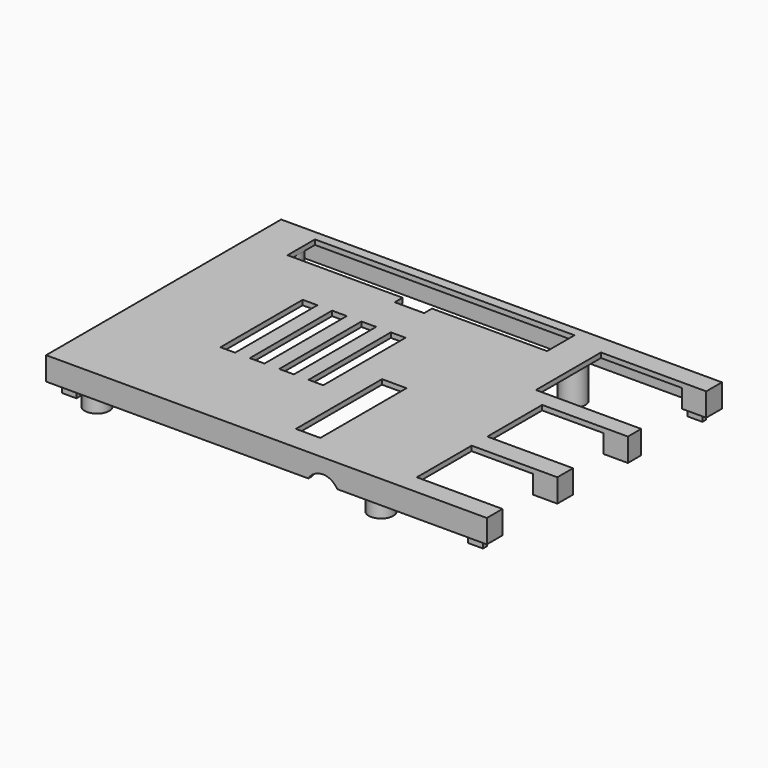
from build123d import *

# Parameters (mm, degrees)
BOX071_W               = 5
BOX071_H               = 22
BOX071_DEPTH           = 10
BOX002_W               = 5
BOX002_H               = 12
BOX002_DEPTH           = 6
BOX003_W               = 9
BOX003_H               = 10
BOX003_DEPTH           = 3.8
FILLET_R               = 1.6
BOX004_W               = 7
BOX004_H               = 10
BOX004_DEPTH           = 3.8
FILLET001_R            = 0.6
BOX005_W               = 7
BOX005_H               = 10
BOX005_DEPTH           = 3.8
FILLET002_R            = 0.6
CYLINDER008_R          = 3.4
CYLINDER008_DEPTH      = 10
BOX006_W               = 26
BOX006_H               = 16.6
BOX006_DEPTH           = 14
BOX007_W               = 22
BOX007_H               = 14
BOX007_DEPTH           = 16.6
BOX008_W               = 22
BOX008_H               = 14
BOX008_DEPTH           = 16.6
CYLINDER001_R          = 1.6
CYLINDER001_DEPTH      = 10
CYLINDER_R             = 1.6
CYLINDER_DEPTH         = 10
CYLINDER002_R          = 1.6
CYLINDER002_DEPTH      = 10
CYLINDER003_R          = 1.6
CYLINDER003_DEPTH      = 10
BOX017_W               = 3
BOX017_H               = 21
BOX017_DEPTH           = 3
BOX009_W               = 3
BOX009_H               = 21
BOX009_DEPTH           = 3
BOX016_W               = 3
BOX016_H               = 21
BOX016_DEPTH           = 3
BOX010_W               = 3
BOX010_H               = 21
BOX010_DEPTH           = 3
BOX021_W               = 53
BOX021_H               = 7
BOX021_DEPTH           = 10
BOX014_W               = 6
BOX014_H               = 2
BOX014_DEPTH           = 10
CYLINDER013_R          = 1.3
CYLINDER013_DEPTH      = 8.5
CYLINDER015_R          = 1.3
CYLINDER015_DEPTH      = 8.5
CYLINDER016_R          = 1.3
CYLINDER016_DEPTH      = 8.5
CYLINDER012_R          = 1.3
CYLINDER012_DEPTH      = 8.5
BOX018_W               = 3
BOX018_H               = 1
BOX018_DEPTH           = 6.75
BOX012_W               = 3
BOX012_H               = 1
BOX012_DEPTH           = 6.75
BOX013_W               = 3
BOX013_H               = 1
BOX013_DEPTH           = 6.75
BOX015_W               = 3
BOX015_H               = 1
BOX015_DEPTH           = 6.75
CYLINDER014_R          = 2.5
CYLINDER014_DEPTH      = 8.5
CYLINDER009_R          = 2.5
CYLINDER009_DEPTH      = 8.5
CYLINDER010_R          = 2.5
CYLINDER010_DEPTH      = 8.5
CYLINDER011_R          = 2.5
CYLINDER011_DEPTH      = 8.5
BOX020_W               = 3.5
BOX020_H               = 56
BOX020_DEPTH           = 10
BOX011_W               = 80
BOX011_H               = 58
BOX011_DEPTH           = 10
BOX019_W               = 90
BOX019_H               = 60
BOX019_DEPTH           = 4.75
CUT003_PLACEMENT_ANGLE = 180
CHAMFER004_SIZE        = 0.5


with BuildPart() as obj1:
    # Box071 → Box071 (new body)
    with BuildSketch(Plane(origin=(2, -25, 7), x_dir=(1, 0, 0), z_dir=(0, 0, 1))):
        with Locations((2.5, 11)):
            Rectangle(BOX071_W, BOX071_H)
    extrude(amount=BOX071_DEPTH)


with BuildPart() as sd_slot:
    # Box002 → Box002 (new body)
    with BuildSketch(Plane(origin=(-45, -6, -1), x_dir=(1, 0, 0), z_dir=(0, 0, 1))):
        with Locations((2.5, 6)):
            Rectangle(BOX002_W, BOX002_H)
    extrude(amount=BOX002_DEPTH)


with BuildPart() as usb_c:
    # Box003 → Box003 (new body)
    with BuildSketch(Plane(origin=(-35.8, -29, 4.7), x_dir=(1, 0, 0), z_dir=(0, 0, 1))):
        with Locations((4.5, 5)):
            Rectangle(BOX003_W, BOX003_H)
    extrude(amount=BOX003_DEPTH)

    # Fillet
    fillet_edges = [usb_c.edges().sort_by_distance(p)[0] for p in [
        (-35.8, -24, 8.5),
        (-35.8, -24, 4.7),
        (-26.8, -24, 8.5),
        (-26.8, -24, 4.7),
    ]]
    fillet(fillet_edges, radius=FILLET_R)


with BuildPart() as usb_c_1:
    # Fillet placement: moved
    add(usb_c.part.moved(Location((0, -4, 0))))


with BuildPart() as fillet001:
    # Box004 → Box004 (new body)
    with BuildSketch(Plane(origin=(-20, -29, 4.7), x_dir=(1, 0, 0), z_dir=(0, 0, 1))):
        with Locations((3.5, 5)):
            Rectangle(BOX004_W, BOX004_H)
    extrude(amount=BOX004_DEPTH)

    # Fillet001
    fillet001_edges = [fillet001.edges().sort_by_distance(p)[0] for p in [
        (-20, -24, 8.5),
        (-20, -24, 4.7),
        (-13, -24, 8.5),
        (-13, -24, 4.7),
    ]]
    fillet(fillet001_edges, radius=FILLET001_R)


with BuildPart() as fillet001_1:
    # Fillet001 placement: moved
    add(fillet001.part.moved(Location((0, -4, 0))))


with BuildPart() as fillet002:
    # Box005 → Box005 (new body)
    with BuildSketch(Plane(origin=(-20, -29, 4.7), x_dir=(1, 0, 0), z_dir=(0, 0, 1))):
        with Locations((3.5, 5)):
            Rectangle(BOX005_W, BOX005_H)
    extrude(amount=BOX005_DEPTH)

    # Fillet002
    fillet002_edges = [fillet002.edges().sort_by_distance(p)[0] for p in [
        (-20, -24, 8.5),
        (-20, -24, 4.7),
        (-13, -24, 8.5),
        (-13, -24, 4.7),
    ]]
    fillet(fillet002_edges, radius=FILLET002_R)


with BuildPart() as fillet002_1:
    # Fillet002 placement: moved
    add(fillet002.part.moved(Location((13.5, -4, 0))))


with BuildPart() as audio:
    # Cylinder008 → Cylinder008 (new body)
    with BuildSketch(Plane(origin=(11.5, -23, 8), x_dir=(1, 0, 0), z_dir=(0, -1, 0))):
        Circle(CYLINDER008_R)
    extrude(amount=CYLINDER008_DEPTH)


with BuildPart() as network:
    # Box006 → Box006 (new body)
    with BuildSketch(Plane(origin=(23.5, 9.4, 4.8), x_dir=(1, 0, 0), z_dir=(0, 0, 1))):
        with Locations((13, 8.3)):
            Rectangle(BOX006_W, BOX006_H)
    extrude(amount=BOX006_DEPTH)


with BuildPart() as usb1:
    # Box007 → Box007 (new body)
    with BuildSketch(Plane(origin=(27.5, -8, 4.8), x_dir=(1, 0, 0), z_dir=(0, 0, 1))):
        with Locations((11, 7)):
            Rectangle(BOX007_W, BOX007_H)
    extrude(amount=BOX007_DEPTH)


with BuildPart() as usb2:
    # Box008 → Box008 (new body)
    with BuildSketch(Plane(origin=(27.5, -26, 4.8), x_dir=(1, 0, 0), z_dir=(0, 0, 1))):
        with Locations((11, 7)):
            Rectangle(BOX008_W, BOX008_H)
    extrude(amount=BOX008_DEPTH)


with BuildPart() as zylinder001:
    # Cylinder001 → Cylinder001 (new body)
    with BuildSketch(Plane(origin=(19, 24.5, 0), x_dir=(1, 0, 0), z_dir=(0, 0, 1))):
        Circle(CYLINDER001_R)
    extrude(amount=CYLINDER001_DEPTH)


with BuildPart() as fusion:
    # Cylinder → Cylinder (new body)
    with BuildSketch(Plane(origin=(19, -24.5, 0), x_dir=(1, 0, 0), z_dir=(0, 0, 1))):
        Circle(CYLINDER_R)
    extrude(amount=CYLINDER_DEPTH)

    # Fusion: union Zylinder001
    add(zylinder001.part)


with BuildPart() as zylinder002:
    # Cylinder002 → Cylinder002 (new body)
    with BuildSketch(Plane(origin=(19, 24.5, 0), x_dir=(1, 0, 0), z_dir=(0, 0, 1))):
        Circle(CYLINDER002_R)
    extrude(amount=CYLINDER002_DEPTH)


with BuildPart() as obj2:
    # Cylinder003 → Cylinder003 (new body)
    with BuildSketch(Plane(origin=(19, -24.5, 0), x_dir=(1, 0, 0), z_dir=(0, 0, 1))):
        Circle(CYLINDER003_R)
    extrude(amount=CYLINDER003_DEPTH)

    # Fusion001: union Zylinder002
    add(zylinder002.part)


with BuildPart() as obj2_1:
    # Fusion001 placement: moved
    add(obj2.part.moved(Location((-58, 0, 0))))

    # Fusion002: union Fusion
    add(fusion.part)


with BuildPart() as obj2_2:
    # Fusion002 placement: moved
    add(obj2_1.part.moved(Location((0, 0, -5.3))))

    # Fusion006: union SD-Slot, USB-C, Fillet001, Fillet002, Audio, Network, USB1, USB2
    add(sd_slot.part)
    add(usb_c_1.part)
    add(fillet001_1.part)
    add(fillet002_1.part)
    add(audio.part)
    add(network.part)
    add(usb1.part)
    add(usb2.part)


with BuildPart() as obj2_3:
    # Fusion006 placement: moved
    add(obj2_2.part.moved(Location((0, 0, 0.3))))


with BuildPart() as obj3:
    # Box017 → Box017 (new body)
    with BuildSketch(Plane(origin=(16, -10.5, 0), x_dir=(1, 0, 0), z_dir=(0, 0, 1))):
        with Locations((1.5, 10.5)):
            Rectangle(BOX017_W, BOX017_H)
    extrude(amount=BOX017_DEPTH)


with BuildPart() as obj4:
    # Box009 → Box009 (new body)
    with BuildSketch(Plane(origin=(4, -10.5, 0), x_dir=(1, 0, 0), z_dir=(0, 0, 1))):
        with Locations((1.5, 10.5)):
            Rectangle(BOX009_W, BOX009_H)
    extrude(amount=BOX009_DEPTH)


with BuildPart() as obj5:
    # Box016 → Box016 (new body)
    with BuildSketch(Plane(origin=(22, -10.5, 0), x_dir=(1, 0, 0), z_dir=(0, 0, 1))):
        with Locations((1.5, 10.5)):
            Rectangle(BOX016_W, BOX016_H)
    extrude(amount=BOX016_DEPTH)


with BuildPart() as obj6:
    # Box010 → Box010 (new body)
    with BuildSketch(Plane(origin=(10, -10.5, 0), x_dir=(1, 0, 0), z_dir=(0, 0, 1))):
        with Locations((1.5, 10.5)):
            Rectangle(BOX010_W, BOX010_H)
    extrude(amount=BOX010_DEPTH)

    # Fusion010: union obj3, obj4, obj5
    add(obj3.part)
    add(obj4.part)
    add(obj5.part)


with BuildPart() as obj7:
    # Box021 → Box021 (new body)
    with BuildSketch(Plane(origin=(-16.5, 21, 0), x_dir=(1, 0, 0), z_dir=(0, 0, 1))):
        with Locations((26.5, 3.5)):
            Rectangle(BOX021_W, BOX021_H)
    extrude(amount=BOX021_DEPTH)


with BuildPart() as gpio_leiste:
    # Box014 → Box014 (new body)
    with BuildSketch(Plane(origin=(7, 19, 0), x_dir=(1, 0, 0), z_dir=(0, 0, 1))):
        with Locations((3, 1)):
            Rectangle(BOX014_W, BOX014_H)
    extrude(amount=BOX014_DEPTH)

    # Fusion011: union obj7
    add(obj7.part)


with BuildPart() as zylinder012:
    # Cylinder013 → Cylinder013 (new body)
    with BuildSketch(Plane(origin=(39, 24.5, 1), x_dir=(1, 0, 0), z_dir=(0, 0, 1))):
        Circle(CYLINDER013_R)
    extrude(amount=CYLINDER013_DEPTH)


with BuildPart() as zylinder014:
    # Cylinder015 → Cylinder015 (new body)
    with BuildSketch(Plane(origin=(-19, -24.5, 1), x_dir=(1, 0, 0), z_dir=(0, 0, 1))):
        Circle(CYLINDER015_R)
    extrude(amount=CYLINDER015_DEPTH)


with BuildPart() as zylinder015:
    # Cylinder016 → Cylinder016 (new body)
    with BuildSketch(Plane(origin=(39, -24.5, 1), x_dir=(1, 0, 0), z_dir=(0, 0, 1))):
        Circle(CYLINDER016_R)
    extrude(amount=CYLINDER016_DEPTH)


with BuildPart() as fusion014:
    # Cylinder012 → Cylinder012 (new body)
    with BuildSketch(Plane(origin=(-19, 24.5, 1), x_dir=(1, 0, 0), z_dir=(0, 0, 1))):
        Circle(CYLINDER012_R)
    extrude(amount=CYLINDER012_DEPTH)

    # Fusion009: union Zylinder012, Zylinder014, Zylinder015
    add(zylinder012.part)
    add(zylinder014.part)
    add(zylinder015.part)


with BuildPart() as fusion014_1:
    # Fusion009 placement: moved
    add(fusion014.part.moved(Location((0, 0, 0.4))))

    # Fusion014: union obj6, GPIO-Leiste
    add(obj6.part)
    add(gpio_leiste.part)


with BuildPart() as obj8:
    # Box018 → Box018 (new body)
    with BuildSketch(Plane(origin=(40, 27.5, 0), x_dir=(1, 0, 0), z_dir=(0, 0, 1))):
        with Locations((1.5, 0.5)):
            Rectangle(BOX018_W, BOX018_H)
    extrude(amount=BOX018_DEPTH)


with BuildPart() as obj9:
    # Box012 → Box012 (new body)
    with BuildSketch(Plane(origin=(-43, 27.5, 0), x_dir=(1, 0, 0), z_dir=(0, 0, 1))):
        with Locations((1.5, 0.5)):
            Rectangle(BOX012_W, BOX012_H)
    extrude(amount=BOX012_DEPTH)


with BuildPart() as obj10:
    # Box013 → Box013 (new body)
    with BuildSketch(Plane(origin=(40, -28.5, 0), x_dir=(1, 0, 0), z_dir=(0, 0, 1))):
        with Locations((1.5, 0.5)):
            Rectangle(BOX013_W, BOX013_H)
    extrude(amount=BOX013_DEPTH)


with BuildPart() as obj11:
    # Box015 → Box015 (new body)
    with BuildSketch(Plane(origin=(-43, -28.5, 0), x_dir=(1, 0, 0), z_dir=(0, 0, 1))):
        with Locations((1.5, 0.5)):
            Rectangle(BOX015_W, BOX015_H)
    extrude(amount=BOX015_DEPTH)

    # Fusion012: union obj8, obj9, obj10
    add(obj8.part)
    add(obj9.part)
    add(obj10.part)


with BuildPart() as zylinder013:
    # Cylinder014 → Cylinder014 (new body)
    with BuildSketch(Plane(origin=(39, 24.5, 1), x_dir=(1, 0, 0), z_dir=(0, 0, 1))):
        Circle(CYLINDER014_R)
    extrude(amount=CYLINDER014_DEPTH)


with BuildPart() as zylinder008:
    # Cylinder009 → Cylinder009 (new body)
    with BuildSketch(Plane(origin=(-19, -24.5, 1), x_dir=(1, 0, 0), z_dir=(0, 0, 1))):
        Circle(CYLINDER009_R)
    extrude(amount=CYLINDER009_DEPTH)


with BuildPart() as zylinder009:
    # Cylinder010 → Cylinder010 (new body)
    with BuildSketch(Plane(origin=(39, -24.5, 1), x_dir=(1, 0, 0), z_dir=(0, 0, 1))):
        Circle(CYLINDER010_R)
    extrude(amount=CYLINDER010_DEPTH)


with BuildPart() as obj12:
    # Cylinder011 → Cylinder011 (new body)
    with BuildSketch(Plane(origin=(-19, 24.5, 1), x_dir=(1, 0, 0), z_dir=(0, 0, 1))):
        Circle(CYLINDER011_R)
    extrude(amount=CYLINDER011_DEPTH)

    # Fusion008: union Zylinder013, Zylinder008, Zylinder009
    add(zylinder013.part)
    add(zylinder008.part)
    add(zylinder009.part)


with BuildPart() as deckel_innen_b:
    # Box020 → Box020 (new body)
    with BuildSketch(Plane(origin=(40, -27.5, 1), x_dir=(1, 0, 0), z_dir=(0, 0, 1))):
        with Locations((1.75, 28)):
            Rectangle(BOX020_W, BOX020_H)
    extrude(amount=BOX020_DEPTH)


with BuildPart() as deckel_innen:
    # Box011 → Box011 (new body)
    with BuildSketch(Plane(origin=(-40, -29, 1), x_dir=(1, 0, 0), z_dir=(0, 0, 1))):
        with Locations((40, 29)):
            Rectangle(BOX011_W, BOX011_H)
    extrude(amount=BOX011_DEPTH)

    # Fusion015: union Deckel innen b
    add(deckel_innen_b.part)


with BuildPart() as obj13:
    # Box019 → Box019 (new body)
    with BuildSketch(Plane(origin=(-45, -30, 0), x_dir=(1, 0, 0), z_dir=(0, 0, 1))):
        with Locations((45, 30)):
            Rectangle(BOX019_W, BOX019_H)
    extrude(amount=BOX019_DEPTH)

    # Cut002: cut Deckel innen
    add(deckel_innen.part, mode=Mode.SUBTRACT)

    # Fusion013: union obj11, obj12
    add(obj11.part)
    add(obj12.part)

    # Cut003: cut Fusion014
    add(fusion014_1.part, mode=Mode.SUBTRACT)


with BuildPart() as obj13_1:
    # Cut003 placement: moved
    add(obj13.part.moved(Location((0, 0, 14.75))).rotate(Axis((0, 0, 14.75), (0, 1, 0)), CUT003_PLACEMENT_ANGLE))

    # Cut004: cut obj2
    add(obj2_3.part, mode=Mode.SUBTRACT)

    # Chamfer004
    chamfer004_edges = [obj13_1.edges().sort_by_distance(p)[0] for p in [
        (-37.7, 24.5, 5.25),
        (-37.7, -24.5, 5.25),
        (20.3, -24.5, 5.25),
        (20.3, 24.5, 5.25),
    ]]
    chamfer(chamfer004_edges, length=CHAMFER004_SIZE)

    # Cut027: cut obj1
    add(obj1.part, mode=Mode.SUBTRACT)


solid = obj13_1.part
